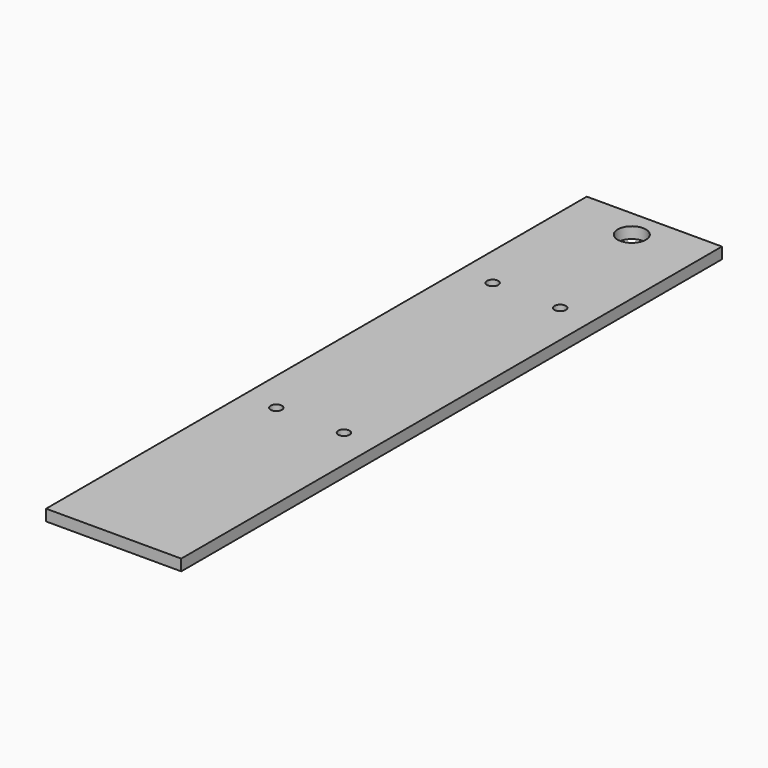
from build123d import *

# Parameters (mm, degrees)
F0_W     = 76.2
F0_H     = 381
F1_DEPTH = 6.35
F2_R     = 7.9375
F2_R_2   = 3.175
F3_DEPTH = 25.4


with BuildPart() as f1:
    # F0 (on Top) → F1 (new body)
    with BuildSketch(Plane.XY):
        with Locations((38.1, -190.5)):
            Rectangle(F0_W, F0_H)
    extrude(amount=F1_DEPTH)

    # F2 (on face) → F3 (cut)
    with BuildSketch(Plane.XY.offset(6.35)):
        with Locations((38.1, -15.875)):
            Circle(F2_R)
        with Locations((19.05, -90.144239)):
            Circle(F2_R_2)
        with Locations((19.05, -242.544239)):
            Circle(F2_R_2)
        with Locations((57.15, -90.144239)):
            Circle(F2_R_2)
        with Locations((57.15, -242.544239)):
            Circle(F2_R_2)
    extrude(amount=-F3_DEPTH, mode=Mode.SUBTRACT)


solid = f1.part
